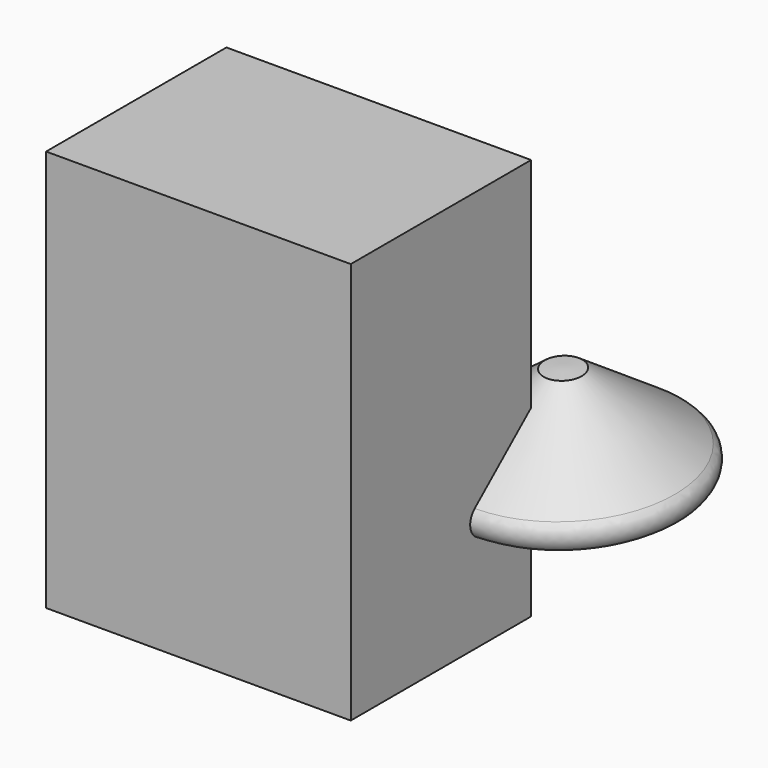
from build123d import *

# Parameters (mm, degrees)
F0_W     = 96.2870568037
F0_H     = 71.2404325604
F1_DEPTH = 127
F4_R     = 5.08


with BuildPart() as f1:
    # F0 (on Top) → F1 (new body)
    with BuildSketch(Plane.XY):
        with Locations((-1.1998191476, 23.9217914641)):
            Rectangle(F0_W, F0_H)
    extrude(amount=F1_DEPTH)

    # F2 (on face) → F3 (revolve)
    with BuildSketch(Plane.YZ.offset(46.9437092543)):
        Polygon((78.3647969365, 64.2705708742), (72.16347754, 64.2705708742), (73.8944262266, 33.9392200112), (123.555906117, 33.9392200112), align=None)
    revolve(axis=Axis((46.9437092543, 73.0289518833, 49.1048954427), (0, -0.0569752704, 0.9983755899)))

    # F4
    f4_edges = [f1.edges().sort_by_distance(p)[0] for p in [
        (7.075019, 103.482224, 32.793656),
    ]]
    fillet(f4_edges, radius=F4_R)


solid = f1.part
